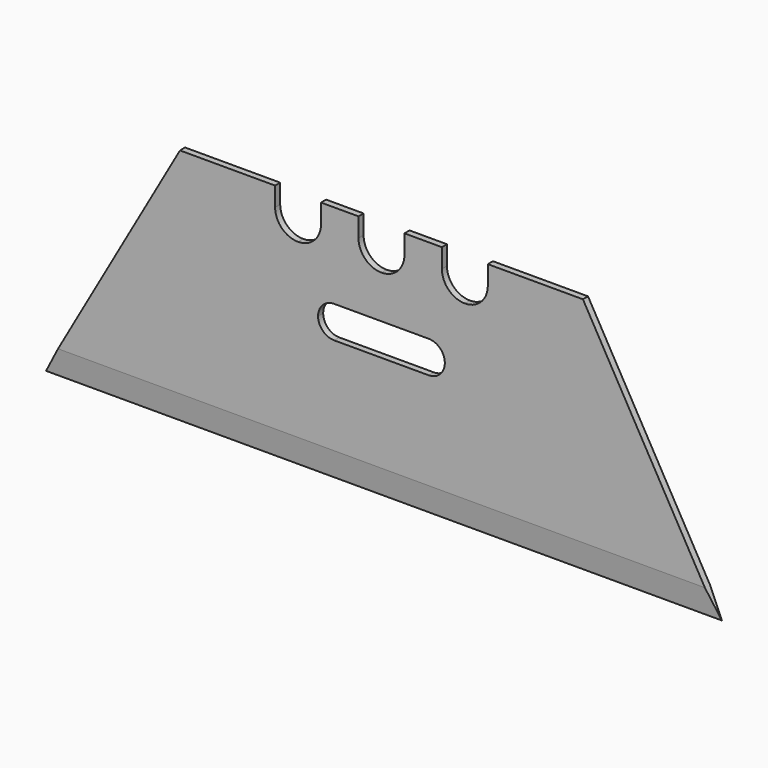
from build123d import *

# Parameters (mm, degrees)
F1_DEPTH = 0.5
F4_DEPTH = 53.001


with BuildPart() as f1:
    # F0 (on Front) → F1 (new body)
    with BuildSketch(Plane.XZ):
        with BuildLine():
            Line((10.7, 18.8), (0, 0))
            Line((0, 0), (53, 0))
            Line((53, 0), (42.3, 18.8))
            Line((42.3, 18.8), (34.84, 18.8))
            Line((34.84, 18.8), (34.84, 17.3))
            ThreePointArc((34.84, 17.3), (34.312792, 16.027208), (33.04, 15.5))
            ThreePointArc((33.04, 15.5), (31.767208, 16.027208), (31.24, 17.3))
            Line((31.24, 17.3), (31.24, 18.8))
            Line((31.24, 18.8), (28.3, 18.8))
            Line((28.3, 18.8), (28.3, 17.3))
            ThreePointArc((28.3, 17.3), (27.772792, 16.027208), (26.5, 15.5))
            ThreePointArc((26.5, 15.5), (25.227208, 16.027208), (24.7, 17.3))
            Line((24.7, 17.3), (24.7, 18.8))
            Line((24.7, 18.8), (21.76, 18.8))
            Line((21.76, 18.8), (21.76, 17.3))
            ThreePointArc((21.76, 17.3), (21.232792, 16.027208), (19.96, 15.5))
            ThreePointArc((19.96, 15.5), (18.687208, 16.027208), (18.16, 17.3))
            Line((18.16, 17.3), (18.16, 18.8))
            Line((18.16, 18.8), (10.7, 18.8))
        make_face()
        with BuildLine():
            ThreePointArc((21.53, 10.88), (21.899045, 11.770955), (22.79, 12.14))
            Line((22.79, 12.14), (30.21, 12.14))
            ThreePointArc((30.21, 12.14), (31.100955, 11.770955), (31.47, 10.88))
            ThreePointArc((31.47, 10.88), (31.100955, 9.989045), (30.21, 9.62))
            Line((30.21, 9.62), (22.79, 9.62))
            ThreePointArc((22.79, 9.62), (21.899045, 9.989045), (21.53, 10.88))
        make_face(mode=Mode.SUBTRACT)
    extrude(amount=F1_DEPTH)

    # F3 (on Right) → F4 (cut, through all)
    with BuildSketch(Plane.YZ):
        Polygon((0, 2), (-0.25, 0), (0, 0), align=None)
        Polygon((-0.5, 2), (-0.5, 0), (-0.25, 0), align=None)
    extrude(amount=F4_DEPTH, mode=Mode.SUBTRACT)


solid = f1.part
